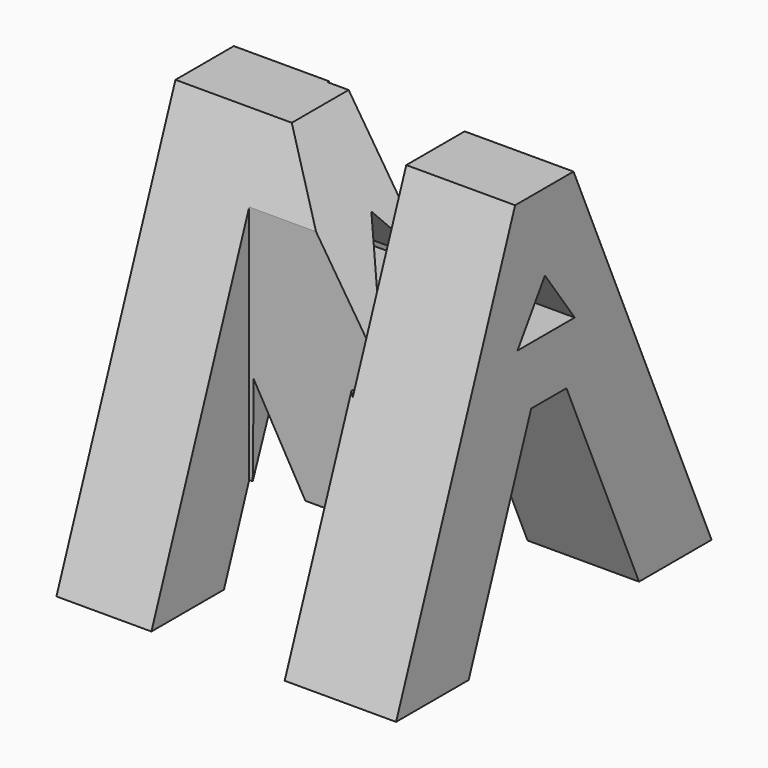
from build123d import *

# Parameters (mm, degrees)
F0_W     = 38.1
F0_H     = 38.1
F1_DEPTH = 38.1
F3_DEPTH = 38.1
F4_W     = 3.3369022369
F4_H     = 38.1
F4_W_2   = 1.9459760515
F5_DEPTH = 38.1
F6_W     = 1.9311041106
F6_H     = 38.1
F6_W_2   = 12.8730144352
F6_H_2   = 16.8606620282
F6_H_3   = 11.8112149596
F6_W_3   = 3.1704599917
F7_DEPTH = 38.1


with BuildPart() as f1:
    # F0 (on Front) → F1 (new body)
    with BuildSketch(Plane.XZ):
        with Locations((19.05, 19.05)):
            Rectangle(F0_W, F0_H)
    extrude(amount=F1_DEPTH)

    # F2 (on Right) → F3 (cut)
    with BuildSketch(Plane.YZ):
        Polygon((-38.1, 0), (-23.7257722765, 38.1), (-38.1, 38.1), align=None)
        Polygon((-29.3381027877, 0), (-8.7619078, 0), (-17.5237406998, 20.0202792485), (-21.7849255435, 20.0202792485), align=None)
        Polygon((-16.6743844748, 38.1), (0, 0), (0, 38.1), align=None)
        Polygon((-23.437961936, 25.6237238646), (-20.1281253248, 25.6237238646), (-16.5304783732, 25.6237238646), (-20.1281253248, 30.6604318321), align=None)
    extrude(amount=F3_DEPTH, mode=Mode.SUBTRACT)

    # F4 (on Front) → F5 (cut)
    with BuildSketch(Plane.XZ):
        with Locations((36.4315488815, 19.05)):
            Rectangle(F4_W, F4_H)
        Polygon((24.2471154779, 38.1), (13.187199831, 38.1), (24.2471154779, 20.9880266339), align=None)
        Polygon((11.5554118529, 16.8178956956), (11.3741010427, 0), (21.1648438126, 0), align=None)
        with Locations((0.9729880258, 19.05)):
            Rectangle(F4_W_2, F4_H)
    extrude(amount=F5_DEPTH, mode=Mode.SUBTRACT)

    # F6 (on Top) → F7 (cut)
    with BuildSketch(Plane.XY):
        with Locations((0.9655520553, -19.05)):
            Rectangle(F6_W, F6_H)
        with Locations((17.5597285852, -8.4303310141)):
            Rectangle(F6_W_2, F6_H_2)
        with Locations((17.5597285852, -32.1943925202)):
            Rectangle(F6_W_2, F6_H_3)
        with Locations((36.5147700042, -19.05)):
            Rectangle(F6_W_3, F6_H)
    extrude(amount=F7_DEPTH, mode=Mode.SUBTRACT)


solid = f1.part
